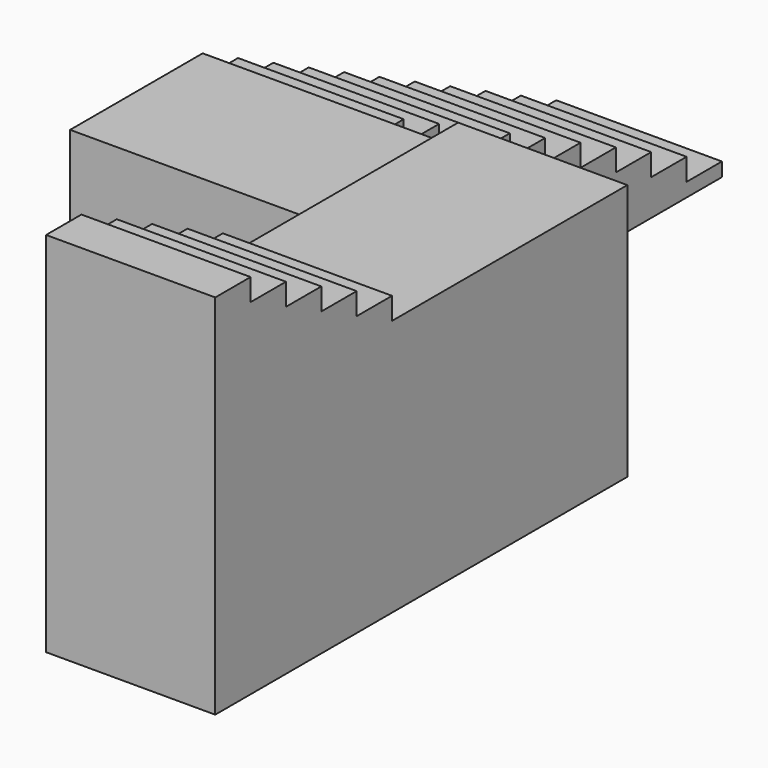
from build123d import *

# Parameters (mm, degrees)
F1_DEPTH = 1200
F3_DEPTH = 650
F4_W     = 1200
F4_H     = 1700
F5_DEPTH = 1225
F7_DEPTH = 1225


with BuildPart() as f1:
    # F0 (on Right) → F1 (new body)
    with BuildSketch(Plane.YZ):
        Polygon((-4400, 0), (0, 0), (0, 100), (-320, 100), (-320, 260), (-640, 260), (-640, 420), (-960, 420), (-960, 580), (-1280, 580), (-1280, 740), (-1600, 740), (-1600, 900), (-1920, 900), (-1920, 1060), (-2240, 1060), (-2240, 1220), (-2560, 1220), (-2560, 1380), (-2880, 1380), (-2880, 1540), (-3200, 1540), (-3200, 1700), (-4400, 1700), align=None)
    extrude(amount=F1_DEPTH)

    # F2 (on face) → F3 (join)
    with BuildSketch(Plane.YZ.offset(1200)):
        Polygon((-3200, 1700), (-4400, 1700), (-4400, 0), (-3200, 0), (-3200, 1540), align=None)
    extrude(amount=F3_DEPTH)

    # F4 (on face) → F5 (join)
    with BuildSketch(Plane.YZ.offset(1850)):
        Polygon((-5330, 0), (-4400, 0), (-4400, 1700), (-3200, 1700), (-3200, 1860), (-5330, 1860), align=None)
        with Locations((-3800, 850)):
            Rectangle(F4_W, F4_H)
    extrude(amount=F5_DEPTH)

    # F6 (on face) → F7 (join, through all)
    with BuildSketch(Plane.YZ.offset(3075)):
        Polygon((-6930, 0), (-5330, 0), (-5330, 1860), (-5330, 2020), (-5650, 2020), (-5650, 2180), (-5970, 2180), (-5970, 2340), (-6290, 2340), (-6290, 2500), (-6610, 2500), (-6610, 2660), (-6930, 2660), align=None)
    extrude(amount=-F7_DEPTH)


solid = f1.part
